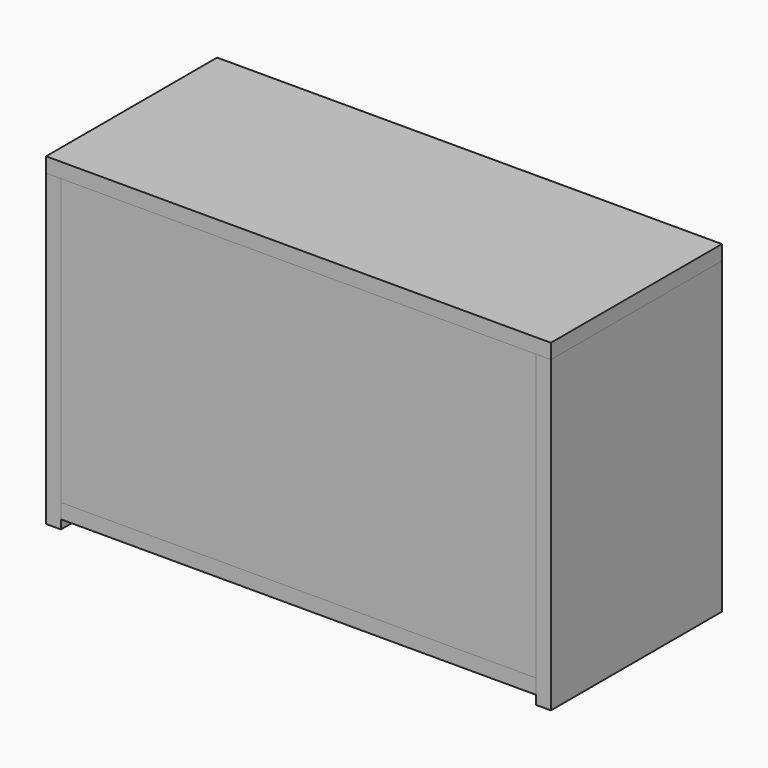
from build123d import *

# Parameters (mm, degrees)
F0_W      = 508
F0_H      = 304.8
F1_DEPTH  = 15.875
F2_W      = 15.875
F2_H      = 304.8
F3_DEPTH  = 15.875
F9_W      = 539.75
F9_H      = 228.6
F10_DEPTH = 15.875
F11_W     = 508
F11_H     = 228.6
F12_DEPTH = 15.875
F13_W     = 508
F13_H     = 15.875
F14_DEPTH = 212.725


with BuildPart() as f1:
    # F0 (on Front) → F1 (new body)
    with BuildSketch(Plane.XZ):
        with Locations((191.8520101309, 134.8332278222)):
            Rectangle(F0_W, F0_H)
    extrude(amount=F1_DEPTH)


with BuildPart() as f3:
    # F2 (on face) → F3 (new body)
    with BuildSketch(Plane.YZ.offset(445.8520101309)):
        Polygon((212.725, 287.2332278222), (0, 287.2332278222), (0, -17.5667721778), (-15.875, -17.5667721778), (-15.875, -42.9667721778), (212.725, -42.9667721778), align=None)
        with Locations((-7.9375, 134.8332278222)):
            Rectangle(F2_W, F2_H)
    extrude(amount=F3_DEPTH)


with BuildPart() as f8_1:
    # F8: instance of F3
    add(f3.part.mirror(Plane(origin=(191.8520101309, -15.875, 287.2332278222), x_dir=(0, 1, 0), z_dir=(1, 0, 0))))


with BuildPart() as f10:
    # F9 (on face) → F10 (new body)
    with BuildSketch(Plane.XY.offset(287.2332278222)):
        with Locations((191.8520101309, 98.425)):
            Rectangle(F9_W, F9_H)
    extrude(amount=F10_DEPTH)


with BuildPart() as f12:
    # F11 (on face) → F12 (new body)
    with BuildSketch(Plane(origin=(0, 0, -17.5667721778), x_dir=(1, 0, 0), z_dir=(0, 0, -1))):
        with Locations((191.8520101309, -98.425)):
            Rectangle(F11_W, F11_H)
    extrude(amount=F12_DEPTH)


with BuildPart() as f14:
    # F13 (on face) → F14 (new body, through all)
    with BuildSketch(Plane(origin=(0, 0, 0), x_dir=(-1, 0, 0), z_dir=(0, 1, 0))):
        with Locations((-191.8520101309, 134.8332278222)):
            Rectangle(F13_W, F13_H)
    extrude(amount=F14_DEPTH)


solid = Compound([f1.part, f3.part, f8_1.part, f10.part, f12.part, f14.part])
